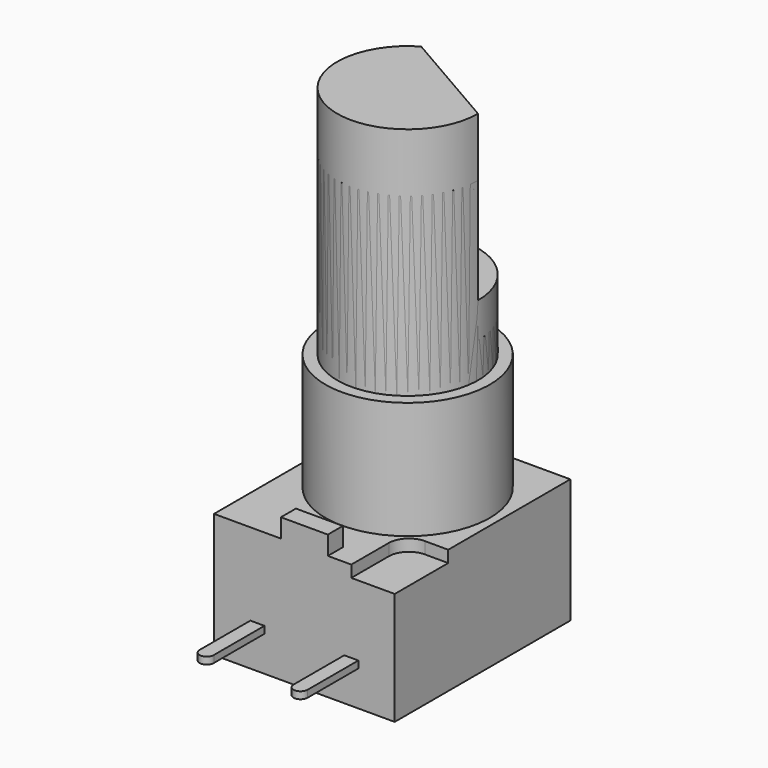
from build123d import *

# Parameters (mm, degrees)
SKETCH_W        = 7.7
SKETCH_H        = 9.35
PAD_DEPTH       = 1
SKETCH001_W     = 7.7
SKETCH001_H     = 9.35
PAD001_DEPTH    = 3
SKETCH002_W     = 7.7
SKETCH002_H     = 9.35
PAD002_DEPTH    = 1.3
SKETCH008_W     = 2
SKETCH008_H     = 0.8
PAD004_DEPTH    = 0.8
POCKET002_DEPTH = 0.5
SKETCH005_W     = 9.604067
SKETCH005_H     = 2.9416
POCKET_DEPTH    = 7
PAD003_DEPTH    = 0.3
SKETCH007_W     = 9.131936
SKETCH007_H     = 2.497029
POCKET001_DEPTH = 6


with BuildPart() as rd701f_body:
    # Sketch → Pad (new body)
    with BuildSketch(Plane.XY):
        with Locations((0, -0.825)):
            Rectangle(SKETCH_W, SKETCH_H)
    extrude(amount=PAD_DEPTH)

    # Sketch001 (on ShapeBinder) → Pad001 (join)
    with BuildSketch(Plane.XY.offset(1)):
        with Locations((0, -0.825)):
            Rectangle(SKETCH001_W, SKETCH001_H)
    extrude(amount=PAD001_DEPTH)

    # Sketch002 (on ShapeBinder) → Pad002 (join)
    with BuildSketch(Plane.XY.offset(4)):
        with Locations((0, -0.825)):
            Rectangle(SKETCH002_W, SKETCH002_H)
    extrude(amount=PAD002_DEPTH)

    # Sketch008 (on Face1 of ShapeBinder002) → Pad004 (join)
    with BuildSketch(Plane.XY.offset(5.3)):
        with Locations((0, -5.1)):
            Rectangle(SKETCH008_W, SKETCH008_H)
    extrude(amount=PAD004_DEPTH)

    # Sketch009 (on ShapeBinder) → Pocket002 (cut)
    with BuildSketch(Plane.XY.offset(5.3)):
        with BuildLine():
            ThreePointArc((2.85, -2.65), (2.248959, -2.898959), (2, -3.5))
            Line((2, -3.5), (2, -5.5))
            Line((3.85, -5.5), (2, -5.5))
            Line((3.85, -2.65), (3.85, -5.5))
            Line((2.85, -2.65), (3.85, -2.65))
        make_face()
        with BuildLine():
            ThreePointArc((-2.85, 1), (-2.248959, 1.248959), (-2, 1.85))
            Line((-2, 1.85), (-2, 3.85))
            Line((-3.85, 3.85), (-2, 3.85))
            Line((-3.85, 1), (-3.85, 3.85))
            Line((-2.85, 1), (-3.85, 1))
        make_face()
    extrude(amount=-POCKET002_DEPTH, mode=Mode.SUBTRACT)


with BuildPart() as rd701f_shaft_type_15f:
    # Sketch003 → Revolution (revolve)
    with BuildSketch(Plane(origin=(0, 0, 0), x_dir=(0, -1, 0), z_dir=(-1, 0, 0))):
        Polygon((0, 0), (-3.5, 0), (-3.5, 5), (-3, 5), (-3, 15), (0, 15), align=None)
    revolve(axis=Axis((0, 0, 0), (0, 0, 1)))

    # Sketch005 (on Face5 of Revolution) → Pocket (cut)
    with BuildSketch(Plane(origin=(0, 0, 15), x_dir=(0.866025, -0.5, 0), z_dir=(0, 0, 1))):
        with Locations((-0.060084, 2.9708)):
            Rectangle(SKETCH005_W, SKETCH005_H)
    extrude(amount=-POCKET_DEPTH, mode=Mode.SUBTRACT)


with BuildPart() as rd701f_shaft_type_15f_1:
    # Body001 placement: moved
    add(rd701f_shaft_type_15f.part.moved(Location((0, 0, 5.3))))


with BuildPart() as body002:
    # Sketch004 → Pad003 (new body)
    with BuildSketch(Plane.XY):
        with BuildLine():
            ThreePointArc((-0.3, -2.7), (0, -3), (0.3, -2.7))
            Line((0.3, 0), (0.3, -2.7))
            Line((-0.3, 0), (0.3, 0))
            Line((-0.3, -2.7), (-0.3, 0))
        make_face()
    extrude(amount=PAD003_DEPTH)


with BuildPart() as body002_1:
    # Body002 placement: moved
    add(body002.part.moved(Location((0, -5.5, 1.5))))


with BuildPart() as body003:
    # Body003 base: copy of Body002
    add(body002_1.part)


with BuildPart() as body003_1:
    # Body003 placement: moved
    add(body003.part.moved(Location((2, 0, 0))))


with BuildPart() as body004:
    # Body004 base: copy of Body002
    add(body002_1.part)


with BuildPart() as body004_1:
    # Body004 placement: moved
    add(body004.part.moved(Location((-2, 0, 0))))


with BuildPart() as rd701f_shaft_type_12_5f:
    # Sketch006 → Revolution001 (revolve)
    with BuildSketch(Plane(origin=(0, 0, 0), x_dir=(0, -1, 0), z_dir=(-1, 0, 0))):
        Polygon((0, 0), (0, 12.5), (-3, 12.5), (-3, 5), (-3.5, 5), (-3.5, 0), align=None)
    revolve(axis=Axis((0, 0, 0), (0, 0, 1)))

    # Sketch007 → Pocket001 (cut)
    with BuildSketch(Plane(origin=(0, 0, 12.5), x_dir=(-0.866025, 0.5, 0), z_dir=(0, 0, 1))):
        with Locations((-0.115358, -2.748514)):
            Rectangle(SKETCH007_W, SKETCH007_H)
    extrude(amount=-POCKET001_DEPTH, mode=Mode.SUBTRACT)


with BuildPart() as rd701f_shaft_type_12_5f_1:
    # Body005 placement: moved
    add(rd701f_shaft_type_12_5f.part.moved(Location((0, 0, 5.3))))


solid = Compound([rd701f_body.part, rd701f_shaft_type_15f_1.part, body003_1.part, body004_1.part, rd701f_shaft_type_12_5f_1.part])
